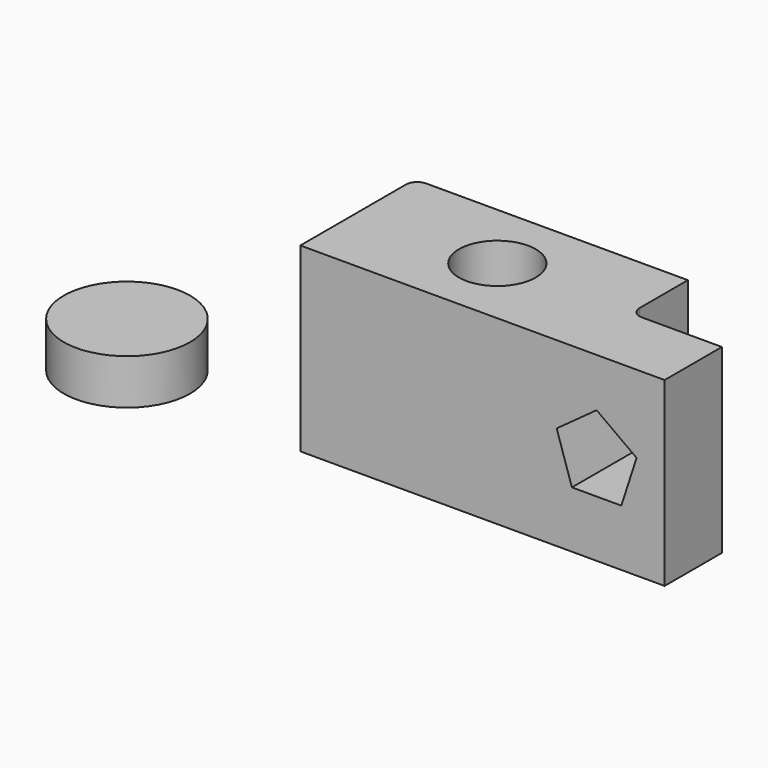
from build123d import *

# Parameters (mm, degrees)
F0_R     = 21.519005
F1_DEPTH = 101.6
F3_DEPTH = 80.297088
F4_R     = 35.386517
F5_DEPTH = 25.4


with BuildPart() as f1:
    # F0 (on Top) → F1 (new body)
    with BuildSketch(Plane.XY):
        with BuildLine():
            Line((75.051092, 39.671227), (-71.562003, 39.671227))
            ThreePointArc((-71.562003, 39.671227), (-76.052131, 37.811355), (-77.912003, 33.321227))
            Line((-77.912003, 33.321227), (-77.912003, -40.624861))
            Line((-77.912003, -40.624861), (75.051092, -40.624861))
            Line((75.051092, -40.624861), (126.241401, -40.624861))
            Line((126.241401, -40.624861), (126.241401, -0.476817))
            Line((126.241401, -0.476817), (81.401092, -0.476817))
            ThreePointArc((81.401092, -0.476817), (76.910964, 1.383055), (75.051092, 5.873183))
            Line((75.051092, 5.873183), (75.051092, 39.671227))
        make_face()
        Circle(F0_R, mode=Mode.SUBTRACT)
    extrude(amount=F1_DEPTH)

    # F2 (on face) → F3 (cut, through all)
    with BuildSketch(Plane.XZ.offset(40.624861)):
        Polygon((65.746783, 58.076453), (74.300766, 31.75), (101.982036, 31.75), (110.536019, 58.076453), (88.141401, 74.347095), align=None)
    extrude(amount=-F3_DEPTH, mode=Mode.SUBTRACT)


with BuildPart() as f5:
    # F4 (on Top) → F5 (new body)
    with BuildSketch(Plane.XY):
        with Locations((-185.151085, -28.042102)):
            Circle(F4_R)
    extrude(amount=F5_DEPTH)


solid = Compound([f1.part, f5.part])
